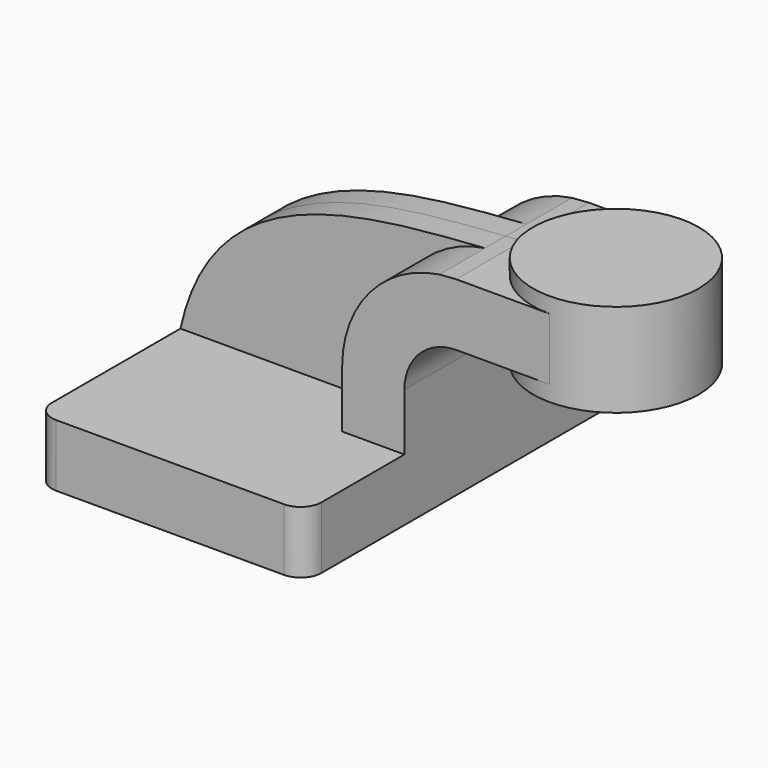
from build123d import *

# Parameters (mm, degrees)
F1_DEPTH = 63.5
F2_DEPTH = 25.4
F3_DEPTH = 7.9375
F5_R     = 6.35


with BuildPart() as f1:
    # F0 (on Front) → F1 (new body, symmetric)
    with BuildSketch(Plane.XZ):
        Polygon((41.275, -9.525), (41.275, 9.525), (22.225, 9.525), (-41.275, 9.525), (-41.275, -9.525), align=None)
    extrude(amount=F1_DEPTH, both=True)

    # F0 (on Front) → F2 (join, symmetric)
    with BuildSketch(Plane.XZ):
        with BuildLine():
            Line((22.225, 9.525), (41.275, 9.525))
            Line((41.275, 9.525), (41.275, 27.0002))
            ThreePointArc((41.275, 27.0002), (45.92468, 38.22552), (57.15, 42.8752))
            Line((57.15, 42.8752), (60.325, 42.8752))
            Line((60.325, 42.8752), (60.325, 61.9252))
            Line((60.325, 61.9252), (57.15, 61.9252))
            add(Edge.make_bspline(
                [(52.001332, 61.543605), (53.732744, 61.669465), (55.450257, 61.795302), (57.15, 61.9252)],
                knots=[106.66287, 106.66287, 106.66287, 106.66287, 111.504536, 111.504536, 111.504536, 111.504536], degree=3))
            ThreePointArc((52.001332, 61.543605), (30.696523, 49.803033), (22.225, 27.0002))
            Line((22.225, 27.0002), (22.225, 9.525))
        make_face()
        Polygon((60.325, 61.9252), (60.325, 42.8752), (73.367334, 42.8752), (85.725, 42.8752), (85.725, 61.9252), (73.367334, 61.9252), align=None)
    extrude(amount=F2_DEPTH, both=True)

    # F0 (on Front) → F3 (join, symmetric)
    with BuildSketch(Plane.XZ):
        with BuildLine():
            Line((-41.275, 9.525), (22.225, 9.525))
            Line((22.225, 9.525), (22.225, 27.0002))
            ThreePointArc((22.225, 27.0002), (30.696523, 49.803033), (52.001332, 61.543605))
            add(Edge.make_bspline(
                [(-41.275, 9.525), (-31.030923, 55.987171), (13.857985, 58.770894), (52.001332, 61.543605)],
                knots=[0, 0, 0, 0, 106.66287, 106.66287, 106.66287, 106.66287], degree=3))
        make_face()
    extrude(amount=F3_DEPTH, both=True)

    # F0 (on Front) → F4 (revolve)
    with BuildSketch(Plane.XZ):
        Polygon((85.725, 42.8752), (85.725, 38.1), (111.125, 38.1), (111.125, 66.675), (85.725, 66.675), (85.725, 61.9252), align=None)
    revolve(axis=Axis((85.725, 0, 52.3875), (0, 0, 1)))

    # F5
    f5_edges = [f1.edges().sort_by_distance(p)[0] for p in [
        (41.275, -63.5, 0),
        (-41.275, -63.5, 0),
        (-41.275, 63.5, 0),
        (41.275, 63.5, 0),
    ]]
    fillet(f5_edges, radius=F5_R)


solid = f1.part
